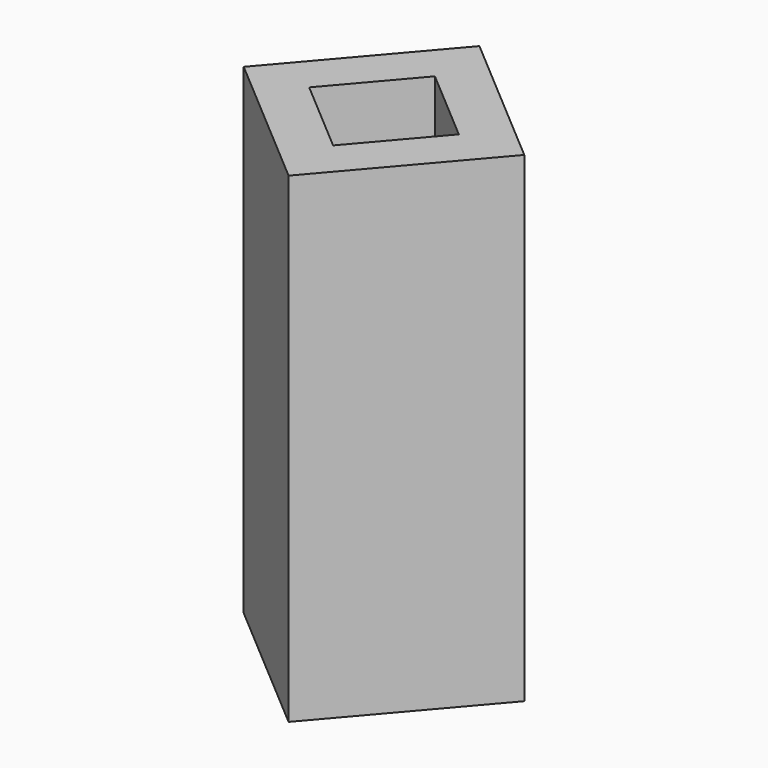
from build123d import *

# Parameters (mm, degrees)
F1_DEPTH = 770
F2_T     = -70


with BuildPart() as f1:
    # F0 (on Top) → F1 (new body)
    with BuildSketch(Plane.XY):
        Polygon((-72.034762, -138.102151), (123.038306, 89.815593), (-104.879438, 284.888662), (-299.952506, 56.970918), align=None)
    extrude(amount=F1_DEPTH)

    # F2
    f2_openings = [f1.faces().sort_by_distance(p)[0] for p in [
        (-88.4571, 73.393255, 770),
    ]]
    offset(amount=F2_T, openings=f2_openings)


solid = f1.part
